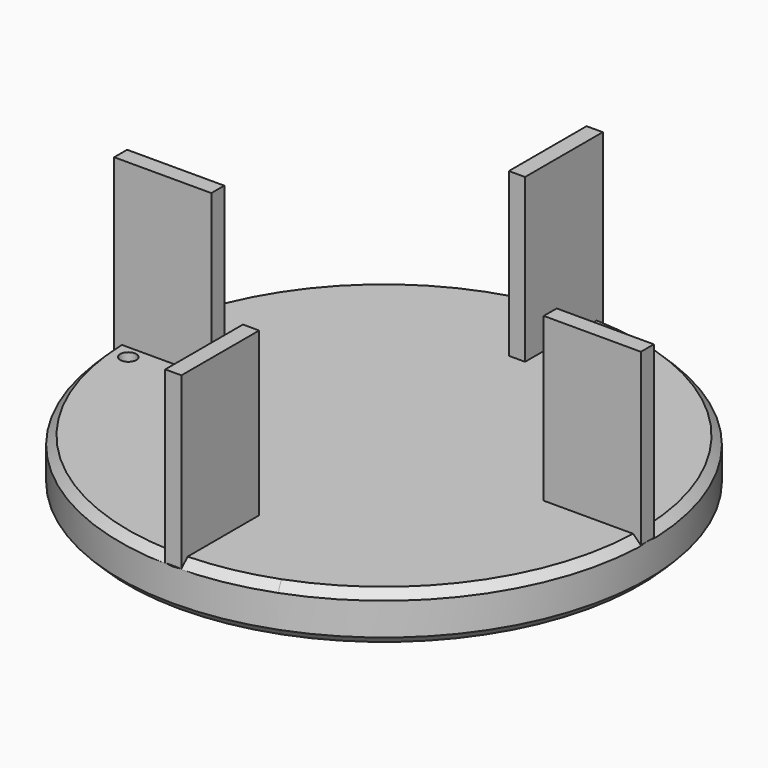
from build123d import *

# Parameters (mm, degrees)
F1_DEPTH = 6
F2_SIZE  = 1
F3_W     = 12
F3_H     = 23
F4_DEPTH = 1
F5_COUNT = 4
F6_R     = 1
F7_DEPTH = 25


with BuildPart() as f1:
    # F0 (on Top) → F1 (new body)
    with BuildSketch(Plane.XY):
        with BuildLine():
            Line((11.3636297451, -30.5553255426), (-11.5303793462, 30.4927918061))
            ThreePointArc((-11.5303793462, 30.4927918061), (-30.524172541, -11.4470472475), (11.3636297451, -30.5553255426))
        make_face()
        with BuildLine():
            ThreePointArc((11.3636297451, -30.5553255426), (26.7695193241, -18.6051830186), (32.6, 0))
            ThreePointArc((32.6, 0), (18.5319944058, 26.8202383163), (-11.5303793462, 30.4927918061))
            Line((-11.5303793462, 30.4927918061), (11.3636297451, -30.5553255426))
        make_face()
    extrude(amount=F1_DEPTH)

    # F2
    f2_edges = [f1.edges().sort_by_distance(p)[0] for p in [
        (-11.36363, 30.555326, 6),
        (-11.36363, 30.555326, 0),
    ]]
    chamfer(f2_edges, length=F2_SIZE)

    # F3 (on Front) → F4 (join, symmetric)
    with BuildSketch(Plane.XZ):
        with Locations((-26.536149025, 14.6011034735)):
            Rectangle(F3_W, F3_H)
    extrude(amount=F4_DEPTH, both=True)

    # F5: F1 ×4 about axis
    f5_axis = Axis((0, 0, 5), (0, 0, -1))


with BuildPart() as f1_1:
    add(f1.part)
    for i in range(1, F5_COUNT):
        add(f1.part.rotate(f5_axis, i * 360 / F5_COUNT))

    # F6 (on Top) → F7 (cut)
    with BuildSketch(Plane.XY):
        with Locations((-29.5159034431, -2.5976577308)):
            Circle(F6_R)
        with Locations((29.5159034431, 2.5976577308)):
            Circle(F6_R)
    extrude(amount=F7_DEPTH, mode=Mode.SUBTRACT)


solid = f1_1.part
